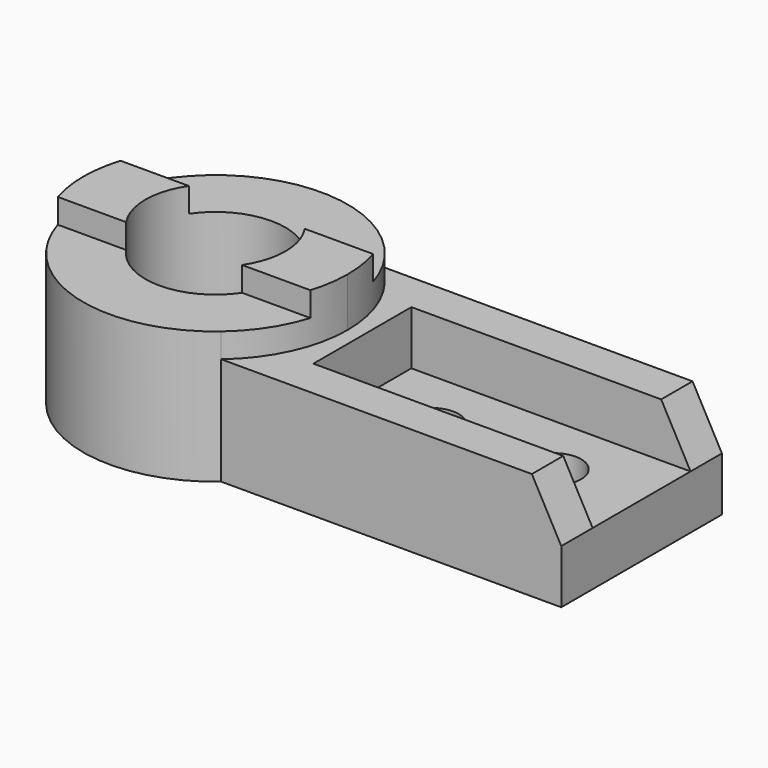
from build123d import *

# Parameters (mm, degrees)
F0_R      = 28.575
F1_DEPTH  = 64
F2_DEPTH  = 44
F3_W      = 103.150376
F3_H      = 49.648258
F3_H_2    = 43.694865
F4_DEPTH  = 10
F5_W      = 114
F5_H      = 50
F6_DEPTH  = 22
F8_DEPTH  = 95.001
F9_R      = 11.1
F10_DEPTH = 22.001


with BuildPart() as f1:
    # F0 (on Top) → F1 (new body)
    with BuildSketch(Plane.XY):
        with BuildLine():
            Line((0.432614, 0), (0, 0))
            Line((0, 0), (0, 82))
            Line((0, 82), (0.432614, 82))
            ThreePointArc((0.432614, 82), (-88.709953, 41), (0.432614, 0))
        make_face()
        with Locations((-34.709953, 41)):
            Circle(F0_R, mode=Mode.SUBTRACT)
        with BuildLine():
            Line((0, 82), (0, 0))
            Line((0, 0), (0.432614, 0))
            ThreePointArc((0.432614, 0), (14.349698, 18.435632), (19.290047, 41))
            ThreePointArc((19.290047, 41), (14.349698, 63.564368), (0.432614, 82))
            Line((0.432614, 82), (0, 82))
        make_face()
    extrude(amount=F1_DEPTH)

    # F0 (on Top) → F2 (join)
    with BuildSketch(Plane.XY):
        with BuildLine():
            ThreePointArc((19.290047, 41), (14.349698, 18.435632), (0.432614, 0))
            Line((0.432614, 0), (139.29, 0))
            Line((139.29, 0), (139.29, 82))
            Line((139.29, 82), (0.432614, 82))
            ThreePointArc((0.432614, 82), (14.349698, 63.564368), (19.290047, 41))
        make_face()
    extrude(amount=F2_DEPTH)

    # F3 (on face) → F4 (cut)
    with BuildSketch(Plane.XY.offset(64)):
        with Locations((-34.709953, 0.175871)):
            Rectangle(F3_W, F3_H)
        with Locations((-34.709953, 78.847432)):
            Rectangle(F3_W, F3_H_2)
    extrude(amount=-F4_DEPTH, mode=Mode.SUBTRACT)

    # F5 (on face) → F6 (cut)
    with BuildSketch(Plane.XY.offset(44)):
        with Locations((82.29, 41)):
            Rectangle(F5_W, F5_H)
    extrude(amount=-F6_DEPTH, mode=Mode.SUBTRACT)

    # F7 (on face) → F8 (cut, through all)
    with BuildSketch(Plane.XZ):
        Polygon((139.29, 22), (139.29, 44), (127.29, 44), align=None)
    extrude(amount=-F8_DEPTH, mode=Mode.SUBTRACT)

    # F9 (on face) → F10 (cut, through all)
    with BuildSketch(Plane.XY.offset(22)):
        with Locations((54.29, 40.001135)):
            Circle(F9_R)
        with Locations((104.29, 40.001135)):
            Circle(F9_R)
    extrude(amount=-F10_DEPTH, mode=Mode.SUBTRACT)


solid = f1.part
